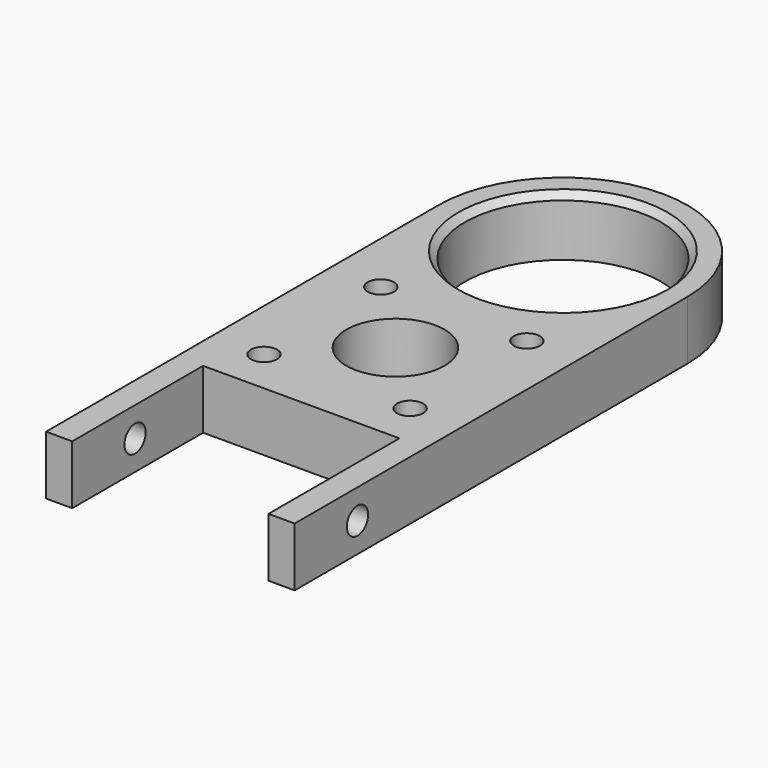
from build123d import *

# Parameters (mm, degrees)
SKETCH_R     = 15
SKETCH_R_2   = 7.5
SKETCH_R_3   = 2
PAD_DEPTH    = 9
SKETCH001_R  = 2.03355
POCKET_DEPTH = 38.000995
CHAMFER_SIZE = 1


with BuildPart() as part:
    # Sketch → Pad (new body)
    with BuildSketch(Plane.XY):
        with BuildLine():
            ThreePointArc((18.999995, 0.014309), (-0.007154, 18.999999), (-19, 0))
            Line((-19, -75), (-19, 0))
            Line((-15, -75), (-19, -75))
            Line((-15, -75), (-15, -50))
            Line((-15, -50), (15, -50))
            Line((15, -50), (15, -75))
            Line((18.999995, -75), (15, -75))
            Line((18.999995, 0.014309), (18.999995, -75))
        make_face()
        Circle(SKETCH_R, mode=Mode.SUBTRACT)
        with Locations((0, -32)):
            Circle(SKETCH_R_2, mode=Mode.SUBTRACT)
        with Locations((-11.162674, -20.837326)):
            Circle(SKETCH_R_3, mode=Mode.SUBTRACT)
        with Locations((11.162674, -20.837326)):
            Circle(SKETCH_R_3, mode=Mode.SUBTRACT)
        with Locations((-11.162674, -43.162674)):
            Circle(SKETCH_R_3, mode=Mode.SUBTRACT)
        with Locations((11.162674, -43.162674)):
            Circle(SKETCH_R_3, mode=Mode.SUBTRACT)
    extrude(amount=PAD_DEPTH)

    # Sketch001 (on Face5 of Pad) → Pocket (cut, through all)
    with BuildSketch(Plane.YZ.offset(18.999995)):
        with Locations((-63, 4.5)):
            Circle(SKETCH001_R)
    extrude(amount=-POCKET_DEPTH, mode=Mode.SUBTRACT)

    # Chamfer
    chamfer_edges = [part.edges().sort_by_distance(p)[0] for p in [
        (-15, 0, 9),
    ]]
    chamfer(chamfer_edges, length=CHAMFER_SIZE)


solid = part.part
